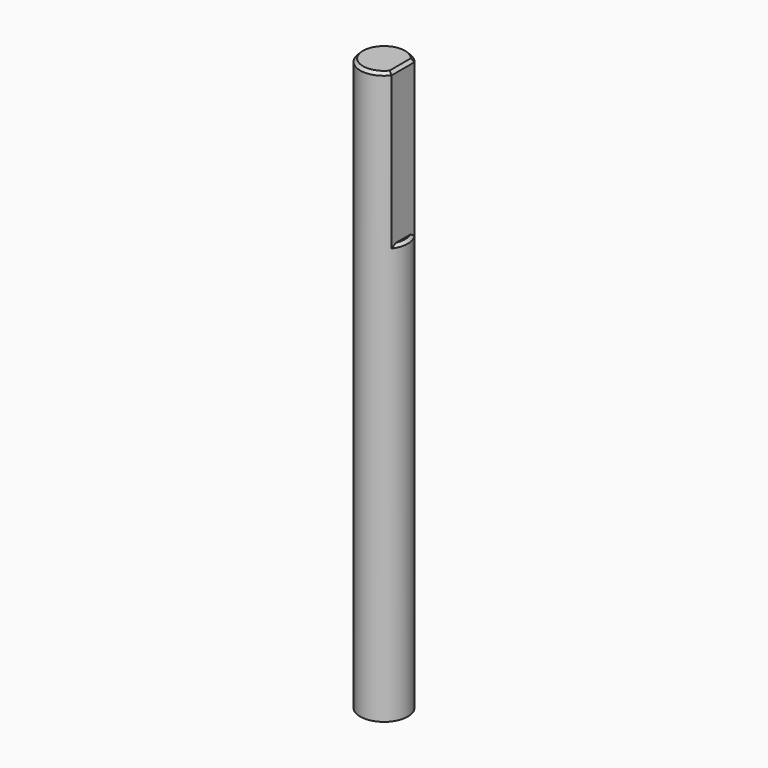
from build123d import *

# Parameters (mm, degrees)
SKETCH010_R     = 2.5
PAD006_DEPTH    = 60
SKETCH011_W     = 4
SKETCH011_H     = 4
POCKET005_DEPTH = 16
CHAMFER003_SIZE = 0.3


with BuildPart() as part:
    # Sketch010 → Pad006 (new body)
    with BuildSketch(Plane.XY):
        Circle(SKETCH010_R)
    extrude(amount=PAD006_DEPTH)

    # Sketch011 (on Face3 of Pad006) → Pocket005 (cut)
    with BuildSketch(Plane.XY.offset(60)):
        with Locations((4, 0)):
            Rectangle(SKETCH011_W, SKETCH011_H)
    extrude(amount=-POCKET005_DEPTH, mode=Mode.SUBTRACT)

    # Chamfer003
    chamfer003_edges = [part.edges().sort_by_distance(p)[0] for p in [
        (2.371708, -0.790569, 44),
        (-2.5, 0, 60),
        (2, 0, 60),
    ]]
    chamfer(chamfer003_edges, length=CHAMFER003_SIZE)


with BuildPart() as part_1:
    # Body005 placement: moved
    add(part.part.moved(Location((0, 0, 2))))


solid = part_1.part
